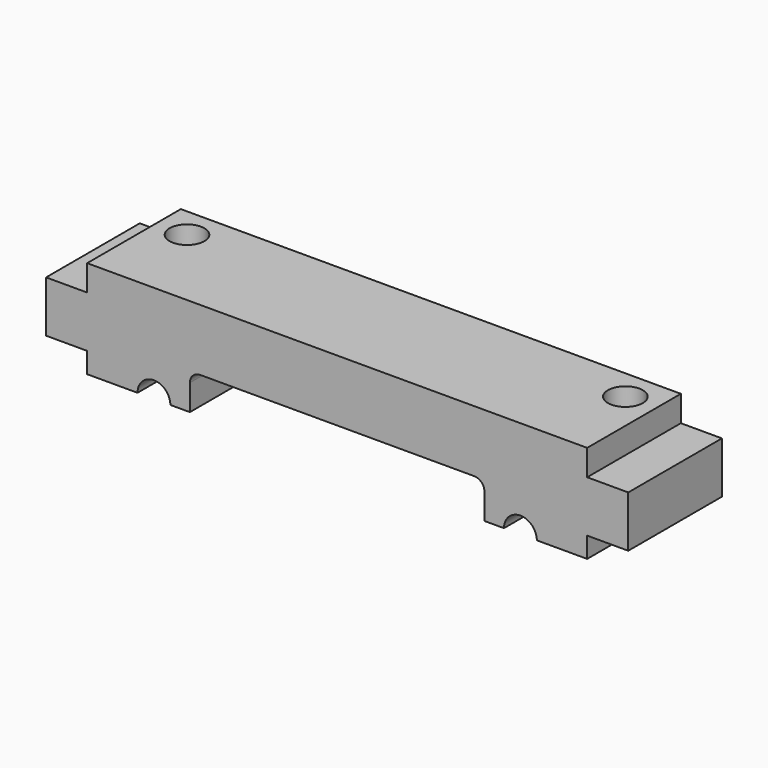
from build123d import *

# Parameters (mm, degrees)
F1_DEPTH = 14.478
F2_R     = 1.27
F3_R     = 2.159
F4_DEPTH = 12.0914
F6_DEPTH = 14.479


with BuildPart() as f1:
    # F0 (on Front) → F1 (new body)
    with BuildSketch(Plane.XZ):
        Polygon((-18.2118, 4.4704), (0, 4.4704), (18.2118, 4.4704), (18.2118, 0), (30.9118, 0), (30.9118, 2.54), (35.9918, 2.54), (35.9918, 8.89), (30.9118, 8.89), (30.9118, 12.0904), (0, 12.0904), (-30.9118, 12.0904), (-30.9118, 8.89), (-35.9918, 8.89), (-35.9918, 2.54), (-30.9118, 2.54), (-30.9118, 0), (-18.2118, 0), align=None)
    extrude(amount=F1_DEPTH)

    # F2
    f2_edges = [f1.edges().sort_by_distance(p)[0] for p in [
        (-18.2118, -7.239, 4.4704),
        (18.2118, -7.239, 4.4704),
    ]]
    fillet(f2_edges, radius=F2_R)

    # F3 (on face) → F4 (cut, through all)
    with BuildSketch(Plane(origin=(0, 0, 0), x_dir=(1, 0, 0), z_dir=(0, 0, -1))):
        with Locations((-27.1018, 3.81)):
            Circle(F3_R)
        with Locations((27.1018, 3.81)):
            Circle(F3_R)
    extrude(amount=-F4_DEPTH, mode=Mode.SUBTRACT)

    # F5 (on face) → F6 (cut, through all)
    with BuildSketch(Plane(origin=(0, 0, 0), x_dir=(-1, 0, 0), z_dir=(0, 1, 0))):
        with BuildLine():
            Line((20.6248, 0), (24.6888, 0))
            ThreePointArc((24.6888, 0), (22.6568, 2.032), (20.6248, 0))
        make_face()
        with BuildLine():
            Line((-24.6888, 0), (-20.6248, 0))
            ThreePointArc((-20.6248, 0), (-22.6568, 2.032), (-24.6888, 0))
        make_face()
    extrude(amount=-F6_DEPTH, mode=Mode.SUBTRACT)


solid = f1.part
